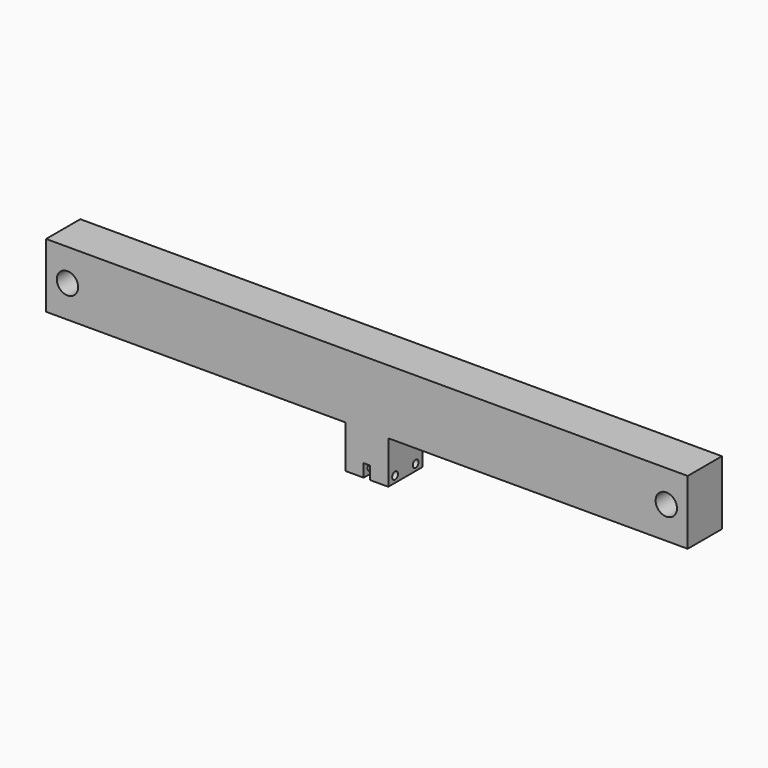
from build123d import *

# Parameters (mm, degrees)
F0_R          = 5
F0_W          = 20
F0_H          = 20
F1_DEPTH      = 10
F1_DEPTH_BACK = 10
F2_R          = 1.7
F3_DEPTH      = 25


with BuildPart() as f1:
    # F0 (on Front) → F1 (new body, two sides)
    with BuildSketch(Plane.XZ) as f1_sk:
        Polygon((10, -15), (150, -15), (150, 15), (-150, 15), (-150, -15), (-10, -15), (-10, 5), (10, 5), align=None)
        with Locations((-140, 0)):
            Circle(F0_R, mode=Mode.SUBTRACT)
        with Locations((140, 0)):
            Circle(F0_R, mode=Mode.SUBTRACT)
        Polygon((10, -35), (10, -15), (-10, -15), (-10, -35), (-1.5, -35), (-1.5, -29), (1.5, -29), (1.5, -35), align=None)
        with Locations((0, -5)):
            Rectangle(F0_W, F0_H)
    extrude(amount=F1_DEPTH)
    extrude(f1_sk.sketch, amount=-F1_DEPTH_BACK)

    # F2 (on face) → F3 (cut)
    with BuildSketch(Plane.YZ.offset(10)):
        with Locations((-6, -32)):
            Circle(F2_R)
        with Locations((6, -32)):
            Circle(F2_R)
    extrude(amount=-F3_DEPTH, mode=Mode.SUBTRACT)


solid = f1.part
